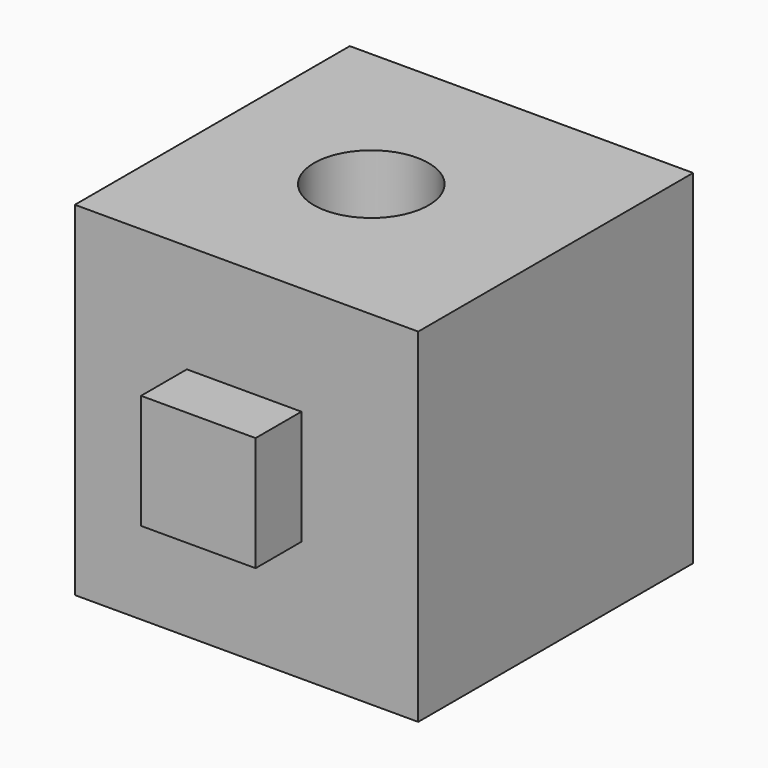
from build123d import *

# Parameters (mm, degrees)
F0_W     = 76.137118
F0_H     = 76.2
F1_DEPTH = 76.2
F4_D     = 25.4
F2_W     = 25.4
F2_H     = 25.4
F5_DEPTH = 12.7
F6_R     = 12.7
F7_DEPTH = 12.7


with BuildPart() as f1:
    # F0 (on Front) → F1 (new body)
    with BuildSketch(Plane.XZ):
        with Locations((38.068559, 38.1)):
            Rectangle(F0_W, F0_H)
    extrude(amount=F1_DEPTH)

    # F4 (through all)
    with Locations(Plane.XY.offset(76.2)):
        with Locations((35.253923, -38.1)):
            Hole(F4_D / 2)

    # F2 (on face) → F5 (join)
    with BuildSketch(Plane.XZ.offset(76.2)):
        with Locations((37.534562, 39.444917)):
            Rectangle(F2_W, F2_H)
    extrude(amount=F5_DEPTH)

    # F6 (on face) → F7 (join)
    with BuildSketch(Plane(origin=(0, 0, 0), x_dir=(-1, 0, 0), z_dir=(0, 1, 0))):
        with Locations((-38.1, 38.1)):
            Circle(F6_R)
    extrude(amount=F7_DEPTH)


solid = f1.part
